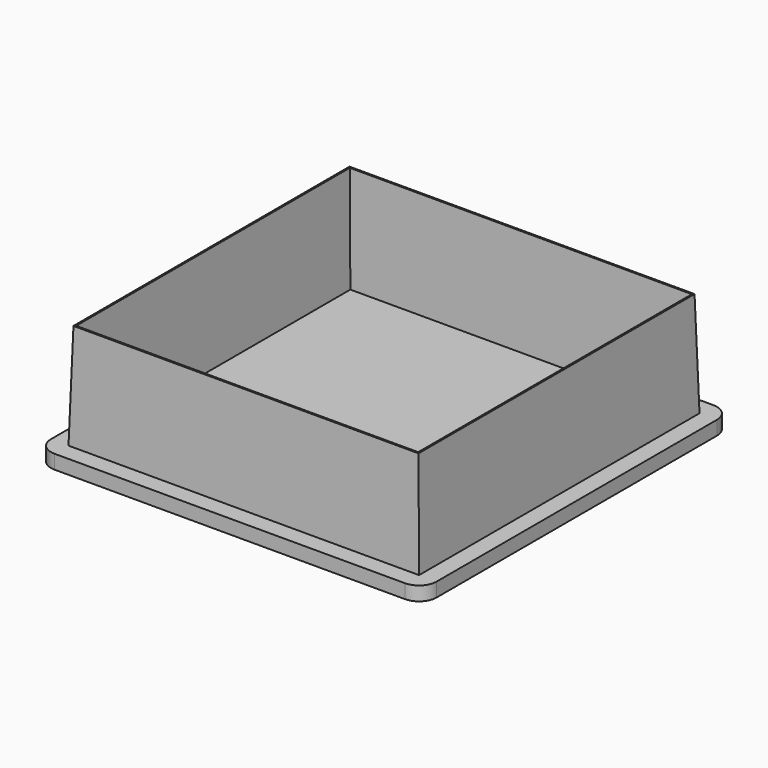
from build123d import *

# Parameters (mm, degrees)
F0_W     = 127
F0_H     = 127
F0_W_2   = 121.92
F0_H_2   = 121.92
F1_DEPTH = 38.1
F1_TAPER = 1.5
F2_W     = 139.7
F2_H     = 139.7
F3_DEPTH = 5.08
F4_R     = 6.35


with BuildPart() as f1:
    # F0 (on Top) → F1 (new body)
    with BuildSketch(Plane.XY):
        Rectangle(F0_W, F0_H)
        Rectangle(F0_W_2, F0_H_2, mode=Mode.SUBTRACT)
    extrude(amount=F1_DEPTH, taper=F1_TAPER)

    # F2 (on Top) → F3 (join)
    with BuildSketch(Plane.XY):
        Rectangle(F2_W, F2_H)
    extrude(amount=-F3_DEPTH)

    # F4
    f4_edges = [f1.edges().sort_by_distance(p)[0] for p in [
        (-69.85, 69.85, -2.54),
        (-69.85, -69.85, -2.54),
        (69.85, -69.85, -2.54),
        (69.85, 69.85, -2.54),
    ]]
    fillet(f4_edges, radius=F4_R)


solid = f1.part
